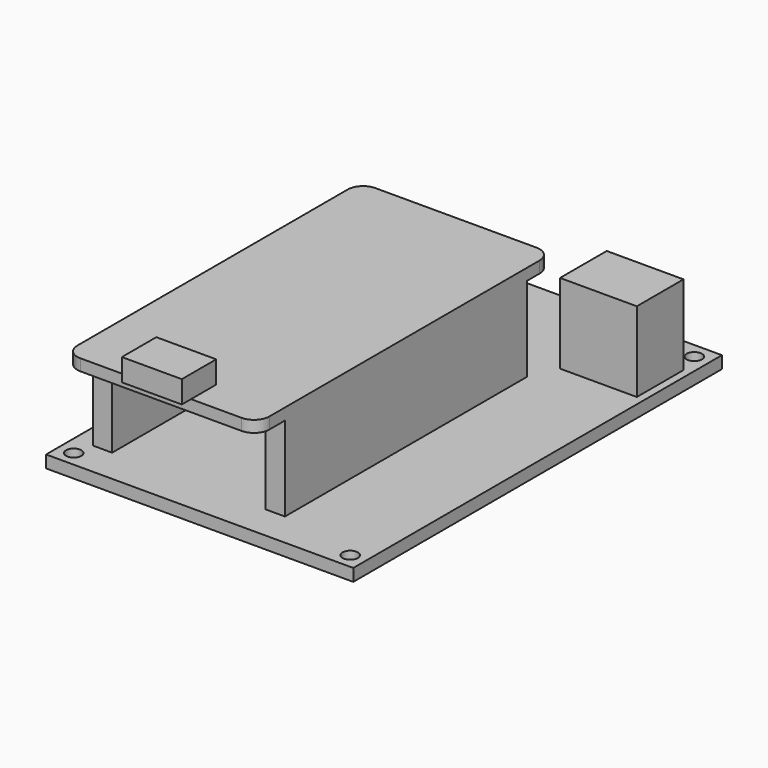
from build123d import *

# Parameters (mm, degrees)
F0_W      = 40
F0_H      = 60
F0_R      = 1
F1_DEPTH  = 1.6
F2_W      = 10
F2_H      = 7.6
F3_DEPTH  = 10.4
F4_W      = 9
F4_H      = 6
F5_DEPTH  = 1
F6_W      = 2.5
F6_H      = 39.4
F7_DEPTH  = 11
F8_W      = 25
F8_H      = 48
F9_DEPTH  = 1.5
F10_R     = 2
F11_W     = 7.8
F11_H     = 5.6
F12_DEPTH = 2.9


with BuildPart() as f1:
    # F0 (on Top) → F1 (new body)
    with BuildSketch(Plane.XY):
        Rectangle(F0_W, F0_H)
        with Locations((-18, -28)):
            Circle(F0_R, mode=Mode.SUBTRACT)
        with Locations((18, -28)):
            Circle(F0_R, mode=Mode.SUBTRACT)
        with Locations((-18, 28)):
            Circle(F0_R, mode=Mode.SUBTRACT)
        with Locations((18, 28)):
            Circle(F0_R, mode=Mode.SUBTRACT)
    extrude(amount=F1_DEPTH)

    # F2 (on face) → F3 (join)
    with BuildSketch(Plane.XY.offset(1.6)):
        with Locations((14, 21.2)):
            Rectangle(F2_W, F2_H)
    extrude(amount=F3_DEPTH)

    # F4 (on face) → F5 (cut)
    with BuildSketch(Plane(origin=(0, 25, 0), x_dir=(-1, 0, 0), z_dir=(0, 1, 0))):
        with Locations((-14, 5.1)):
            Rectangle(F4_W, F4_H)
    extrude(amount=-F5_DEPTH, mode=Mode.SUBTRACT)

    # F6 (on face) → F7 (join)
    with BuildSketch(Plane.XY.offset(1.6)):
        with Locations((6.25, -5.8)):
            Rectangle(F6_W, F6_H)
        with Locations((-16.25, -5.8)):
            Rectangle(F6_W, F6_H)
        with Locations((6.25, -5.8)):
            Rectangle(F6_W, F6_H)
    extrude(amount=F7_DEPTH)

    # F8 (on face) → F9 (join)
    with BuildSketch(Plane.XY.offset(12.6)):
        with Locations((-5, -6.032404)):
            Rectangle(F8_W, F8_H)
    extrude(amount=F9_DEPTH)

    # F10
    f10_edges = [f1.edges().sort_by_distance(p)[0] for p in [
        (-17.5, -30.032404, 13.35),
        (7.5, -30.032404, 13.35),
        (7.5, 17.967596, 13.35),
        (-17.5, 17.967596, 13.35),
    ]]
    fillet(f10_edges, radius=F10_R)

    # F11 (on face) → F12 (join)
    with BuildSketch(Plane.XY.offset(14.1)):
        with Locations((-5, -28.732404)):
            Rectangle(F11_W, F11_H)
    extrude(amount=F12_DEPTH)


solid = f1.part
